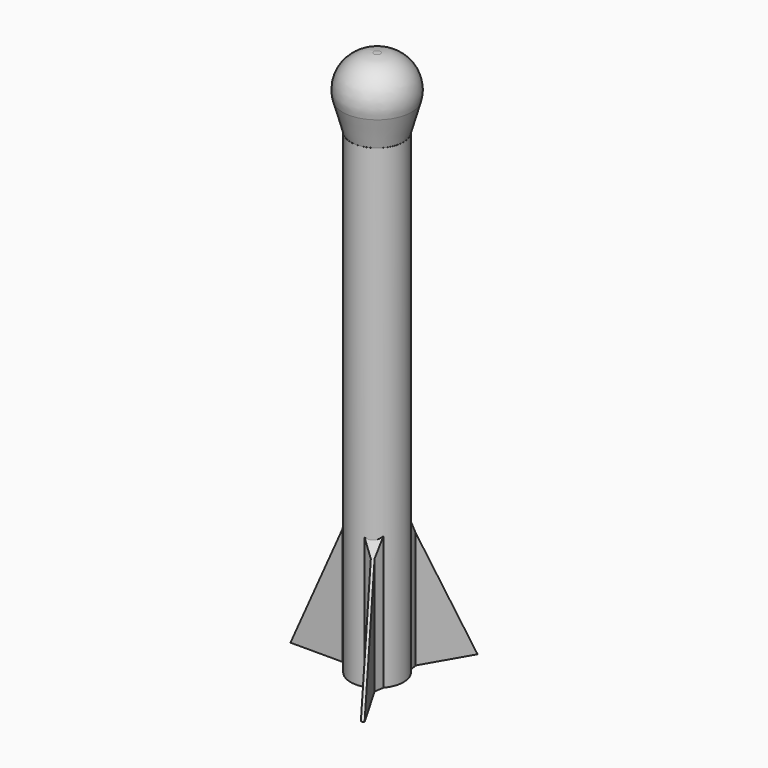
from build123d import *

# Parameters (mm, degrees)
SKETCH_R           = 8.9
PAD_DEPTH          = 160
SKETCH001_R        = 8.3
POCKET_DEPTH       = 158
PAD001_DEPTH       = 1
POLARPATTERN_COUNT = 3
CHAMFER_SIZE       = 2


with BuildPart() as part:
    # Sketch → Pad (new body)
    with BuildSketch(Plane.XY):
        Circle(SKETCH_R)
    extrude(amount=PAD_DEPTH)

    # Sketch001 (on Face2 of Pad) → Pocket (cut)
    with BuildSketch(Plane(origin=(0, 0, 0), x_dir=(1, 0, 0), z_dir=(0, 0, -1))):
        Circle(SKETCH001_R)
    extrude(amount=-POCKET_DEPTH, mode=Mode.SUBTRACT)

    # Sketch002 → Pad001 (join)
    with BuildSketch(Plane.XZ):
        Polygon((-8.35, 45), (-28.35, 0), (-8.35, 0), align=None)
    pad001 = extrude(amount=PAD001_DEPTH)

    # PolarPattern: Pad001 ×3 about axis
    polarpattern_axis = Axis((0, 0, 0), (0, 0, 1))
    for i in range(1, POLARPATTERN_COUNT):
        add(pad001.rotate(polarpattern_axis, i * 360 / POLARPATTERN_COUNT))

    # Sketch003 → Revolution (revolve)
    with BuildSketch(Plane.XZ):
        with BuildLine():
            Line((-1.135739, 183.616416), (0, 183.616416))
            Line((0, 183.616416), (0, 159.771789))
            Line((0, 159.771789), (-8.8, 159.771789))
            Line((-8.8, 159.771789), (-11.616332, 169.779203))
            ThreePointArc((-1.135739, 183.616416), (-9.8149, 179.302476), (-11.616332, 169.779203))
        make_face()
    revolve(axis=Axis((0, 0, 0), (0, 0, 1)))

    # Chamfer
    chamfer_edges = [part.edges().sort_by_distance(p)[0] for p in [
        (4.45, 7.707626, 21.88125),
        (5.287846, -7.158818, 21.944653),
        (4.45, -7.707626, 21.88125),
        (-8.843642, -1, 21.944653),
        (-8.9, 0, 21.88125),
        (3.555795, 8.158818, 21.944653),
    ]]
    chamfer(chamfer_edges, length=CHAMFER_SIZE)


solid = part.part
